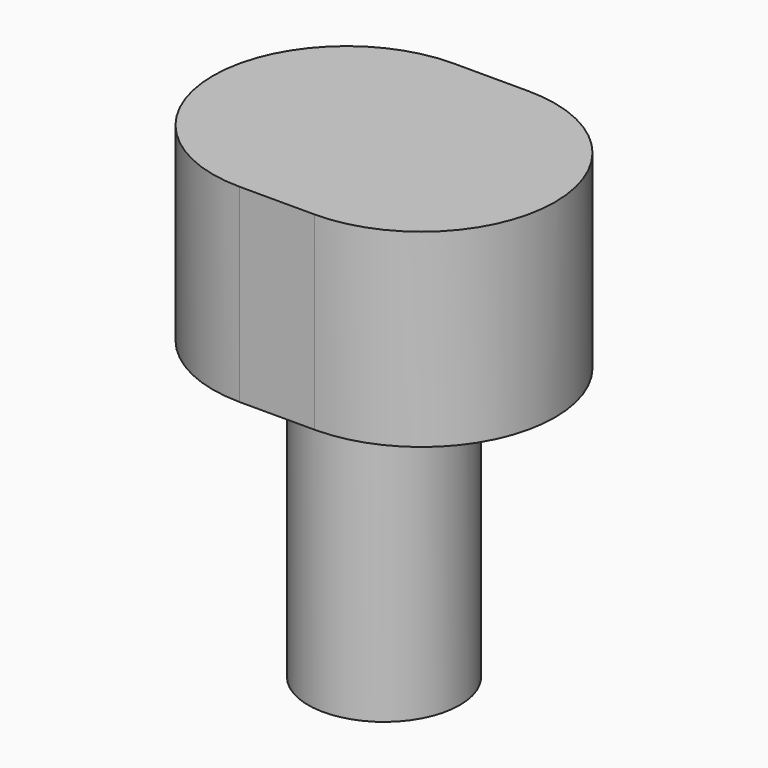
from build123d import *

# Parameters (mm, degrees)
F0_R     = 4
F1_DEPTH = 15
F3_DEPTH = 10


with BuildPart() as f1:
    # F0 (on Top) → F1 (new body)
    with BuildSketch(Plane.XY):
        Circle(F0_R)
    extrude(amount=F1_DEPTH)

    # F2 (on face) → F3 (join)
    with BuildSketch(Plane.XY.offset(15)):
        with BuildLine():
            Line((0, -7.05), (0, 0))
            Line((0, 0), (0, 7.05))
            Line((0, 7.05), (-1.975, 7.05))
            ThreePointArc((-1.975, 7.05), (-9.025, 0), (-1.975, -7.05))
            Line((-1.975, -7.05), (0, -7.05))
        make_face()
        with BuildLine():
            Line((0, 7.05), (0, 0))
            Line((0, 0), (0, -7.05))
            Line((0, -7.05), (1.975, -7.05))
            ThreePointArc((1.975, -7.05), (9.025, 0), (1.975, 7.05))
            Line((1.975, 7.05), (0, 7.05))
        make_face()
    extrude(amount=F3_DEPTH)


solid = f1.part
